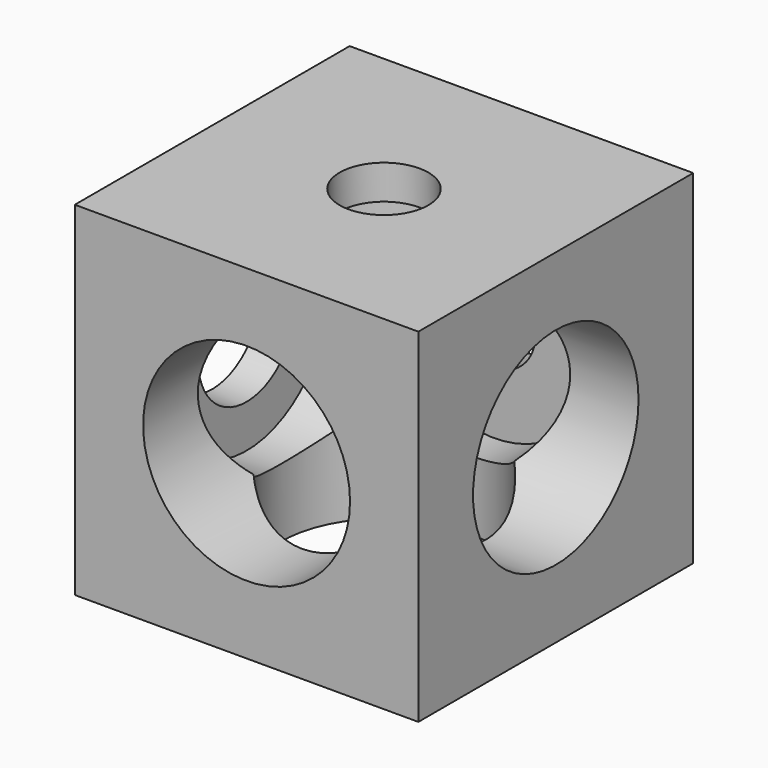
from build123d import *

# Parameters (mm, degrees)
SKETCH067_W     = 20
SKETCH067_H     = 20
PAD022_DEPTH    = 10
SKETCH068_R     = 5.966215
POCKET042_DEPTH = 18
SKETCH069_R     = 2.581292
POCKET043_DEPTH = 2
SKETCH070_R     = 6.020554
POCKET044_DEPTH = 18
SKETCH071_R     = 3.518198
POCKET045_DEPTH = 2
SKETCH072_R     = 6.023017
POCKET046_DEPTH = 18
SKETCH073_R     = 2.40921
POCKET047_DEPTH = 2


with BuildPart() as part:
    # Sketch067 → Pad022 (new body, symmetric)
    with BuildSketch(Plane(origin=(451.8, 0, 0), x_dir=(0, 1, 0), z_dir=(0, 0, 1))):
        Rectangle(SKETCH067_W, SKETCH067_H)
    extrude(amount=PAD022_DEPTH, both=True)

    # Sketch068 → Pocket042 (cut)
    with BuildSketch(Plane(origin=(451.8, 0, -10), x_dir=(0, 1, 0), z_dir=(0, 0, -1))):
        Circle(SKETCH068_R)
    extrude(amount=-POCKET042_DEPTH, mode=Mode.SUBTRACT)

    # Sketch069 → Pocket043 (cut)
    with BuildSketch(Plane(origin=(451.8, 0, 10), x_dir=(0, 1, 0), z_dir=(0, 0, 1))):
        Circle(SKETCH069_R)
    extrude(amount=-POCKET043_DEPTH, mode=Mode.SUBTRACT)

    # Sketch070 → Pocket044 (cut)
    with BuildSketch(Plane.YZ.offset(461.8)):
        Circle(SKETCH070_R)
    extrude(amount=-POCKET044_DEPTH, mode=Mode.SUBTRACT)

    # Sketch071 → Pocket045 (cut)
    with BuildSketch(Plane(origin=(441.8, 0, 0), x_dir=(0, -1, 0), z_dir=(-1, 0, 0))):
        Circle(SKETCH071_R)
    extrude(amount=-POCKET045_DEPTH, mode=Mode.SUBTRACT)

    # Sketch072 → Pocket046 (cut)
    with BuildSketch(Plane(origin=(451.8, -10, 0), x_dir=(1, 0, 0), z_dir=(0, -1, 0))):
        Circle(SKETCH072_R)
    extrude(amount=-POCKET046_DEPTH, mode=Mode.SUBTRACT)

    # Sketch073 → Pocket047 (cut)
    with BuildSketch(Plane(origin=(451.8, 10, 0), x_dir=(-1, 0, 0), z_dir=(0, 1, 0))):
        Circle(SKETCH073_R)
    extrude(amount=-POCKET047_DEPTH, mode=Mode.SUBTRACT)


solid = part.part
